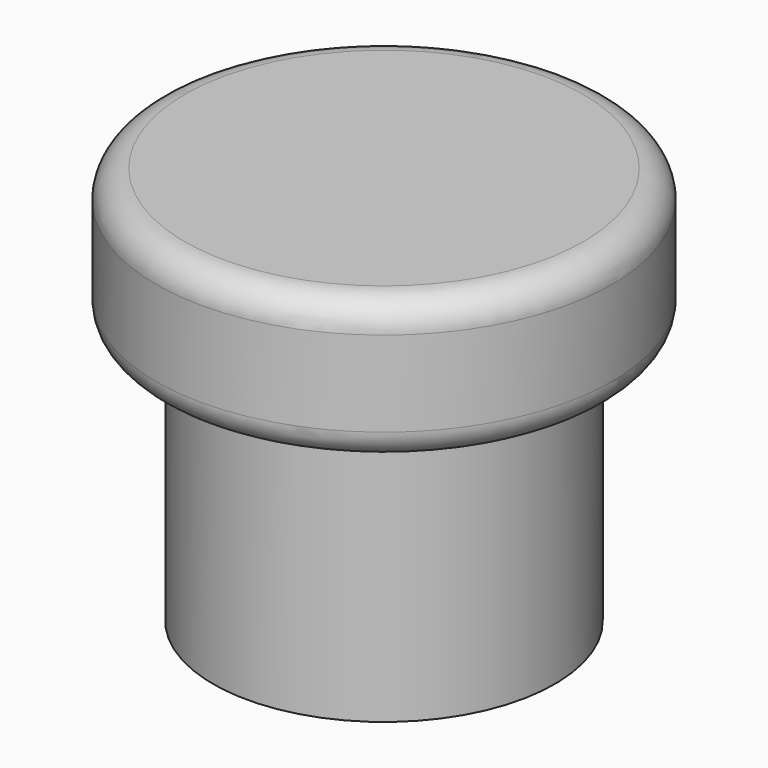
from build123d import *

# Parameters (mm, degrees)
F0_W     = 7.62
F0_H     = 11.43
F2_R     = 1.27
F3_R     = 7.366
F4_DEPTH = 12.7


with BuildPart() as f1:
    # F0 (on Right) → F1 (revolve)
    with BuildSketch(Plane.YZ):
        with Locations((3.81, 5.715)):
            Rectangle(F0_W, F0_H)
        Polygon((0, 17.78), (0, 11.43), (7.62, 11.43), (10.16, 11.43), (10.16, 17.78), align=None)
    revolve(axis=Axis((0, 0, 5.715), (0, 0, 1)))

    # F2
    f2_edges = [f1.edges().sort_by_distance(p)[0] for p in [
        (0, -10.16, 11.43),
        (0, -10.16, 17.78),
        (0, 10.16, 14.605),
    ]]
    fillet(f2_edges, radius=F2_R)

    # F3 (on face) → F4 (cut)
    with BuildSketch(Plane(origin=(0, 0, 0), x_dir=(1, 0, 0), z_dir=(0, 0, -1))):
        Circle(F3_R)
    extrude(amount=-F4_DEPTH, mode=Mode.SUBTRACT)


solid = f1.part
